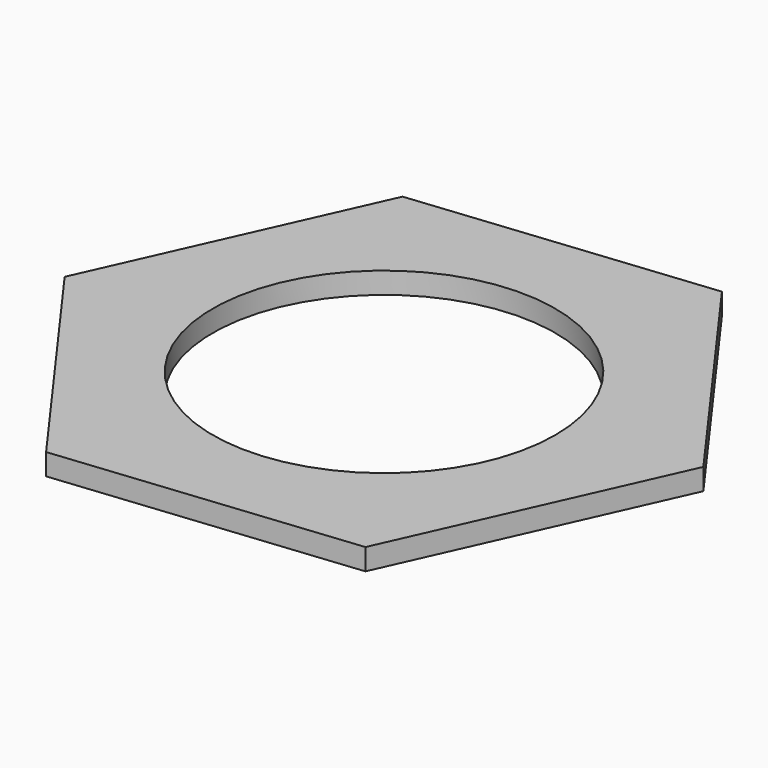
from build123d import *

# Parameters (mm, degrees)
F1_DEPTH = 3.175
F2_R     = 25.4
F3_DEPTH = 25.4


with BuildPart() as f1:
    # F0 (on Top) → F1 (new body)
    with BuildSketch(Plane.XY):
        Polygon((17.992529, 40.146593), (-25.771704, 35.655284), (-43.764234, -4.491309), (-17.992529, -40.146593), (25.771704, -35.655284), (43.764234, 4.491309), align=None)
    extrude(amount=F1_DEPTH)

    # F2 (on face) → F3 (cut)
    with BuildSketch(Plane.XY.offset(3.175)):
        Circle(F2_R)
    extrude(amount=-F3_DEPTH, mode=Mode.SUBTRACT)


solid = f1.part
